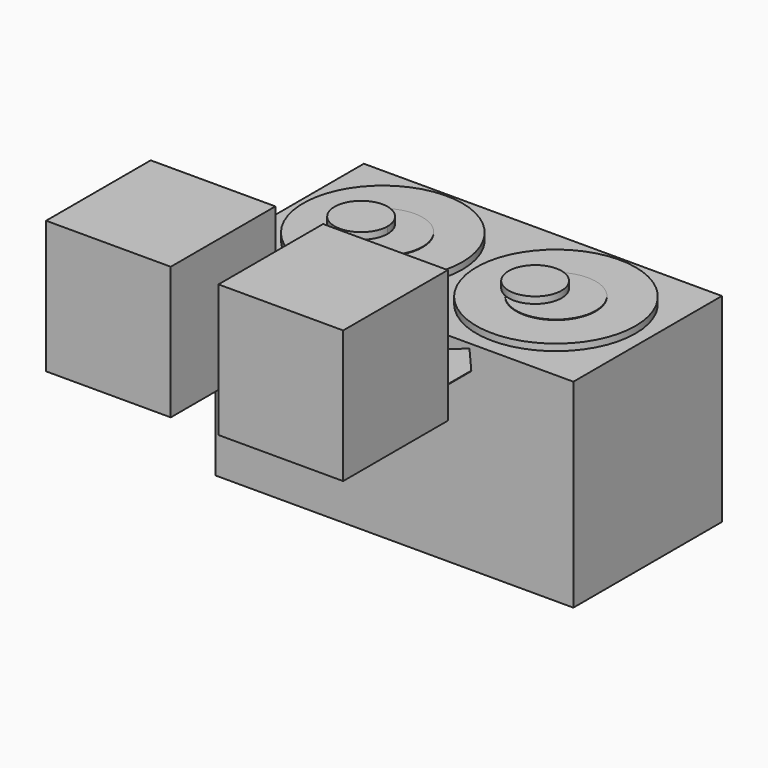
from build123d import *

# Parameters (mm, degrees)
F0_W      = 1350
F0_H      = 700
F1_DEPTH  = 750
F2_R      = 300
F3_DEPTH  = 25
F4_R      = 150
F5_DEPTH  = 2
F6_R      = 100
F7_DEPTH  = 25
F9_W      = 470
F9_H      = 493
F10_DEPTH = 500
F12_DEPTH = 2


with BuildPart() as f1:
    # F0 (on Top) → F1 (new body)
    with BuildSketch(Plane.XY):
        with Locations((326.891053, -4.235172)):
            Rectangle(F0_W, F0_H)
    extrude(amount=F1_DEPTH)

    # F2 (on face) → F3 (join)
    with BuildSketch(Plane.XY.offset(750)):
        Circle(F2_R)
        with Locations((652.847528, 0)):
            Circle(F2_R)
    extrude(amount=F3_DEPTH)

    # F4 (on face) → F5 (join)
    with BuildSketch(Plane.XY.offset(775)):
        Circle(F4_R)
        with Locations((652.97693, 0)):
            Circle(F4_R)
    extrude(amount=F5_DEPTH)

    # F6 (on face) → F7 (join)
    with BuildSketch(Plane.XY.offset(777)):
        with BuildLine():
            ThreePointArc((-117.397835, -93.368883), (-150, 0), (-117.397835, 93.368883))
            ThreePointArc((-117.397835, 93.368883), (-181.589293, 0), (-117.397835, -93.368883))
        make_face()
        with BuildLine():
            ThreePointArc((-117.397835, -93.368883), (-24.9362, -82.404048), (18.410707, 0))
            ThreePointArc((18.410707, 0), (-24.9362, 82.404048), (-117.397835, 93.368883))
            ThreePointArc((-117.397835, 93.368883), (-150, 0), (-117.397835, -93.368883))
        make_face()
        with Locations((574.271739, 0)):
            Circle(F6_R)
    extrude(amount=F7_DEPTH)


with BuildPart() as f8_1:
    # F8: copy of F1
    add(f1.part.moved(Location((1000, 0, 0))))


with BuildPart() as f10:
    # F9 (on face) → F10 (new body)
    with BuildSketch(Plane.XY.offset(775)):
        with Locations((13.533548, -1063.437692)):
            Rectangle(F9_W, F9_H)
    extrude(amount=F10_DEPTH)


with BuildPart() as f12:
    # F11 (on face) → F12 (new body)
    with BuildSketch(Plane.XY.offset(750)):
        Polygon((-16.380985, -383.592603), (-293.802531, -623.397648), (-243.508416, -677.836294), (-23.939691, -489.535302), (0, -517.450224), (0, -760.851622), (21.79382, -760.851622), (21.79382, -690.160453), (52.316047, -690.160453), (52.316047, -760.851622), (75.404631, -760.851622), (75.404631, -489.775971), align=None)
    extrude(amount=F12_DEPTH)


with BuildPart() as f13_1:
    # F13: copy of F10
    add(f10.part.moved(Location((1000, 0, 0))))


with BuildPart() as f14_1:
    # F14: copy of F12
    add(f12.part.moved(Location((1000, 0, 0))))


with BuildPart() as f17_1:
    # F17: copy of F10
    add(f10.part.moved(Location((650, 0, 0))))


with BuildPart() as f18_1:
    # F18: copy of F12
    add(f12.part.moved(Location((650, 0, 0))))


solid = Compound([f1.part, f10.part, f12.part, f17_1.part, f18_1.part])
